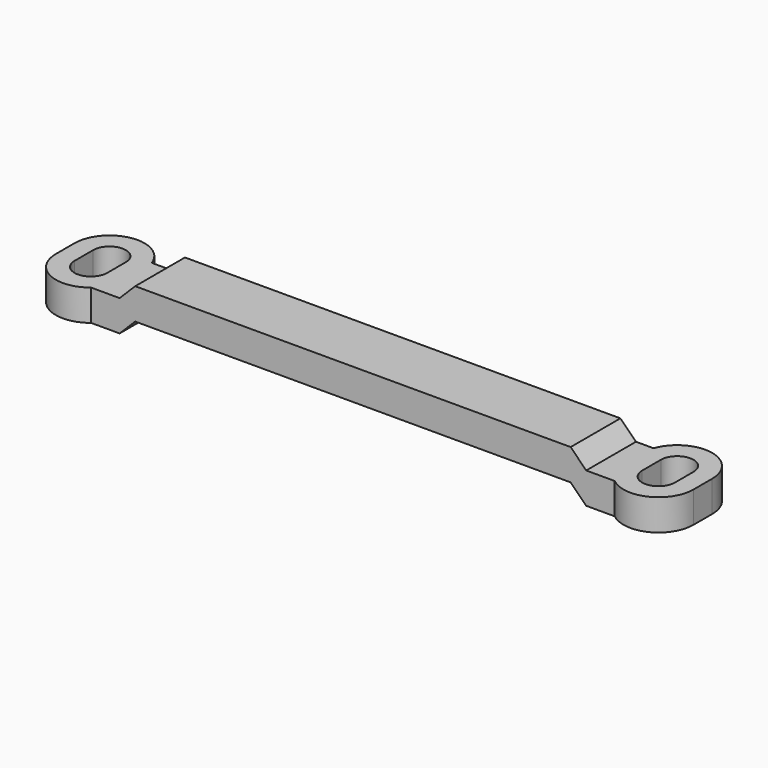
from build123d import *

# Parameters (mm, degrees)
BOX002_W          = 4.2
BOX002_H          = 3
BOX002_DEPTH      = 4
CYLINDER005_R     = 2.1
CYLINDER005_DEPTH = 4
CYLINDER004_R     = 2.1
CYLINDER004_DEPTH = 4
BOX003_W          = 9
BOX003_H          = 3
BOX003_DEPTH      = 4
CYLINDER006_R     = 4.5
CYLINDER006_DEPTH = 4
CYLINDER007_R     = 4.5
CYLINDER007_DEPTH = 4
BOX005_W          = 6
BOX005_H          = 8
BOX005_DEPTH      = 4
CHAMFER002_SIZE   = 2
BOX006_W          = 60
BOX006_H          = 8
BOX006_DEPTH      = 4
CHAMFER_SIZE      = 2
CHAMFER003_SIZE   = 2
BOX004_W          = 6
BOX004_H          = 8
BOX004_DEPTH      = 4
CHAMFER001_SIZE   = 2
BOX_W             = 4.2
BOX_H             = 3
BOX_DEPTH         = 4
CYLINDER001_R     = 2.1
CYLINDER001_DEPTH = 4
CYLINDER_R        = 2.1
CYLINDER_DEPTH    = 4
BOX001_W          = 9
BOX001_H          = 3
BOX001_DEPTH      = 4
CYLINDER003_R     = 4.5
CYLINDER003_DEPTH = 4
CYLINDER002_R     = 4.5
CYLINDER002_DEPTH = 4


with BuildPart() as obj1:
    # Box002 → Box002 (new body)
    with BuildSketch(Plane(origin=(-2.1, 0, 0), x_dir=(1, 0, 0), z_dir=(0, 0, 1))):
        with Locations((2.1, 1.5)):
            Rectangle(BOX002_W, BOX002_H)
    extrude(amount=BOX002_DEPTH)


with BuildPart() as zylinder005:
    # Cylinder005 → Cylinder005 (new body)
    with BuildSketch(Plane(origin=(0, 3, 0), x_dir=(1, 0, 0), z_dir=(0, 0, 1))):
        Circle(CYLINDER005_R)
    extrude(amount=CYLINDER005_DEPTH)


with BuildPart() as fusion002:
    # Cylinder004 → Cylinder004 (new body)
    with BuildSketch(Plane.XY):
        Circle(CYLINDER004_R)
    extrude(amount=CYLINDER004_DEPTH)

    # Fusion002: union obj1, Zylinder005
    add(obj1.part)
    add(zylinder005.part)


with BuildPart() as obj2:
    # Box003 → Box003 (new body)
    with BuildSketch(Plane(origin=(-4.5, 0, 0), x_dir=(1, 0, 0), z_dir=(0, 0, 1))):
        with Locations((4.5, 1.5)):
            Rectangle(BOX003_W, BOX003_H)
    extrude(amount=BOX003_DEPTH)


with BuildPart() as zylinder006:
    # Cylinder006 → Cylinder006 (new body)
    with BuildSketch(Plane(origin=(0, 3, 0), x_dir=(1, 0, 0), z_dir=(0, 0, 1))):
        Circle(CYLINDER006_R)
    extrude(amount=CYLINDER006_DEPTH)


with BuildPart() as cut001:
    # Cylinder007 → Cylinder007 (new body)
    with BuildSketch(Plane.XY):
        Circle(CYLINDER007_R)
    extrude(amount=CYLINDER007_DEPTH)

    # Fusion003: union obj2, Zylinder006
    add(obj2.part)
    add(zylinder006.part)

    # Cut001: cut Fusion002
    add(fusion002.part, mode=Mode.SUBTRACT)


with BuildPart() as cut001_1:
    # Cut001 placement: moved
    add(cut001.part.moved(Location((77.5, 0, 0))))


with BuildPart() as chamfer002:
    # Box005 → Box005 (new body)
    with BuildSketch(Plane(origin=(69, -3.5, 0), x_dir=(1, 0, 0), z_dir=(0, 0, 1))):
        with Locations((3, 4)):
            Rectangle(BOX005_W, BOX005_H)
    extrude(amount=BOX005_DEPTH)

    # Chamfer002
    chamfer002_edges = [chamfer002.edges().sort_by_distance(p)[0] for p in [
        (69, 0.5, 0),
    ]]
    chamfer(chamfer002_edges, length=CHAMFER002_SIZE)


with BuildPart() as chamfer003:
    # Box006 → Box006 (new body)
    with BuildSketch(Plane(origin=(11, -3.5, 2), x_dir=(1, 0, 0), z_dir=(0, 0, 1))):
        with Locations((30, 4)):
            Rectangle(BOX006_W, BOX006_H)
    extrude(amount=BOX006_DEPTH)

    # Chamfer
    chamfer_edges = [chamfer003.edges().sort_by_distance(p)[0] for p in [
        (11, 0.5, 6),
    ]]
    chamfer(chamfer_edges, length=CHAMFER_SIZE)

    # Chamfer003
    chamfer003_edges = [chamfer003.edges().sort_by_distance(p)[0] for p in [
        (71, 0.5, 6),
    ]]
    chamfer(chamfer003_edges, length=CHAMFER003_SIZE)


with BuildPart() as fusion004:
    # Box004 → Box004 (new body)
    with BuildSketch(Plane(origin=(7, -3.5, 0), x_dir=(1, 0, 0), z_dir=(0, 0, 1))):
        with Locations((3, 4)):
            Rectangle(BOX004_W, BOX004_H)
    extrude(amount=BOX004_DEPTH)

    # Chamfer001
    chamfer001_edges = [fusion004.edges().sort_by_distance(p)[0] for p in [
        (13, 0.5, 0),
    ]]
    chamfer(chamfer001_edges, length=CHAMFER001_SIZE)

    # Fusion004: union Chamfer002, Chamfer003
    add(chamfer002.part)
    add(chamfer003.part)


with BuildPart() as obj3:
    # Box → Box (new body)
    with BuildSketch(Plane(origin=(-2.1, 0, 0), x_dir=(1, 0, 0), z_dir=(0, 0, 1))):
        with Locations((2.1, 1.5)):
            Rectangle(BOX_W, BOX_H)
    extrude(amount=BOX_DEPTH)


with BuildPart() as zylinder001:
    # Cylinder001 → Cylinder001 (new body)
    with BuildSketch(Plane(origin=(0, 3, 0), x_dir=(1, 0, 0), z_dir=(0, 0, 1))):
        Circle(CYLINDER001_R)
    extrude(amount=CYLINDER001_DEPTH)


with BuildPart() as fusion:
    # Cylinder → Cylinder (new body)
    with BuildSketch(Plane.XY):
        Circle(CYLINDER_R)
    extrude(amount=CYLINDER_DEPTH)

    # Fusion: union obj3, Zylinder001
    add(obj3.part)
    add(zylinder001.part)


with BuildPart() as obj4:
    # Box001 → Box001 (new body)
    with BuildSketch(Plane(origin=(-4.5, 0, 0), x_dir=(1, 0, 0), z_dir=(0, 0, 1))):
        with Locations((4.5, 1.5)):
            Rectangle(BOX001_W, BOX001_H)
    extrude(amount=BOX001_DEPTH)


with BuildPart() as zylinder003:
    # Cylinder003 → Cylinder003 (new body)
    with BuildSketch(Plane(origin=(0, 3, 0), x_dir=(1, 0, 0), z_dir=(0, 0, 1))):
        Circle(CYLINDER003_R)
    extrude(amount=CYLINDER003_DEPTH)


with BuildPart() as fusion005:
    # Cylinder002 → Cylinder002 (new body)
    with BuildSketch(Plane.XY):
        Circle(CYLINDER002_R)
    extrude(amount=CYLINDER002_DEPTH)

    # Fusion001: union obj4, Zylinder003
    add(obj4.part)
    add(zylinder003.part)

    # Cut: cut Fusion
    add(fusion.part, mode=Mode.SUBTRACT)


with BuildPart() as fusion005_1:
    # Cut placement: moved
    add(fusion005.part.moved(Location((4.5, 0, 0))))

    # Fusion005: union Cut001, Fusion004
    add(cut001_1.part)
    add(fusion004.part)


solid = fusion005_1.part
